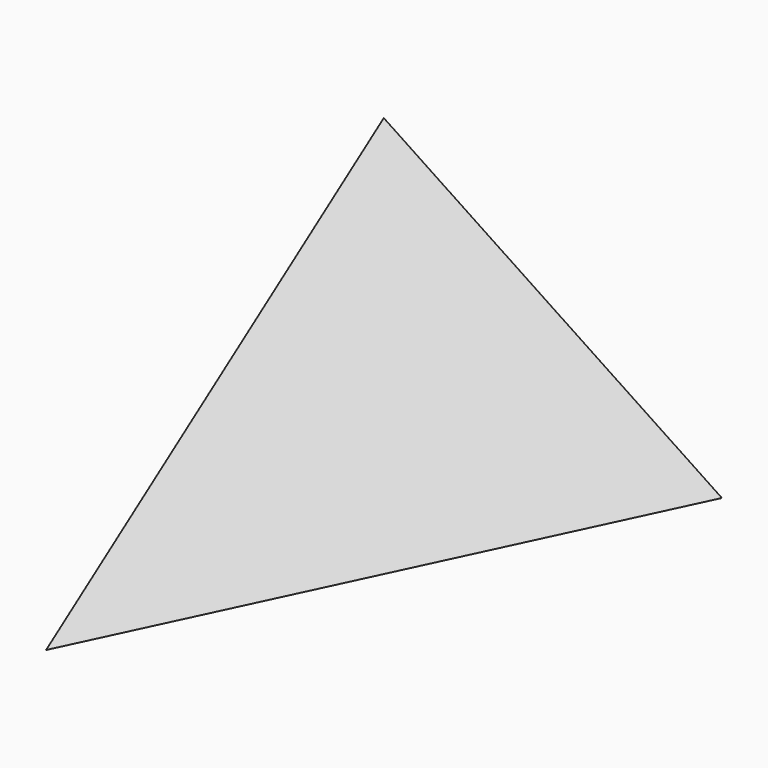
from build123d import *


with BuildPart() as f3:
    # F0 (on Front) → F3 section 0
    with BuildSketch(Plane.XZ, mode=Mode.PRIVATE) as f3_s0:
        Polygon((-20.755129, 41.796969), (-25.819672, -38.872954), (46.574801, -2.924015), align=None)
    loft([f3_s0.sketch, Vertex(0, -110, 0)])


solid = f3.part
